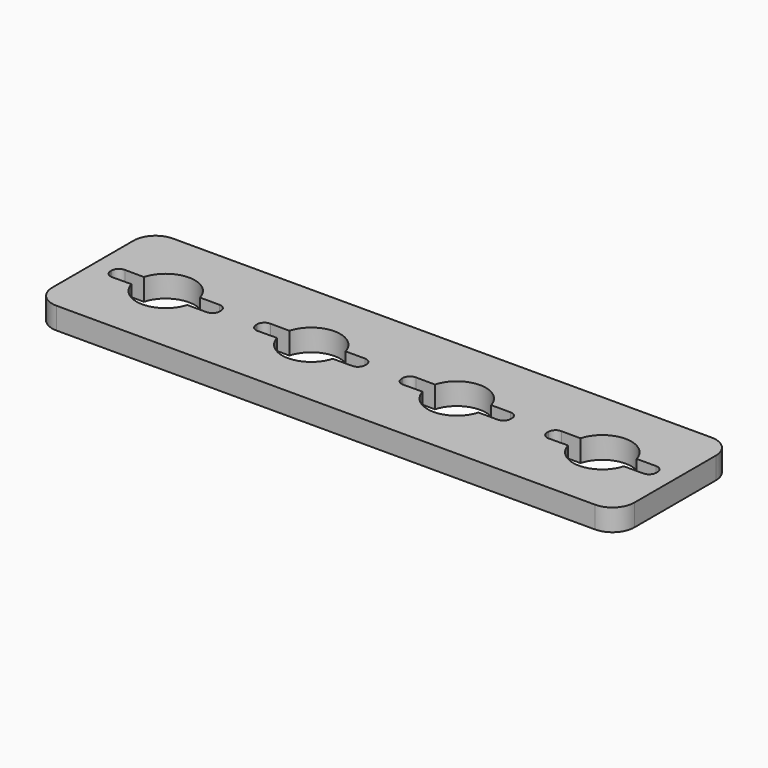
from build123d import *

# Parameters (mm, degrees)
F1_DEPTH = 3


with BuildPart() as f1:
    # F0 (on Top) → F1 (new body)
    with BuildSketch(Plane.XY):
        with BuildLine():
            Line((43.034693, -3.379224), (-30.965307, -3.379224))
            ThreePointArc((-30.965307, -3.379224), (-33.086628, -4.257904), (-33.965307, -6.379224))
            Line((-33.965307, -6.379224), (-33.965307, -20.379224))
            ThreePointArc((-33.965307, -20.379224), (-33.086628, -22.500544), (-30.965307, -23.379224))
            Line((-30.965307, -23.379224), (43.034693, -23.379224))
            ThreePointArc((43.034693, -23.379224), (45.156013, -22.500544), (46.034693, -20.379224))
            Line((46.034693, -20.379224), (46.034693, -6.379224))
            ThreePointArc((46.034693, -6.379224), (45.156013, -4.257904), (43.034693, -3.379224))
        make_face()
        with BuildLine():
            ThreePointArc((-27.821847, -12.317573), (-23.985223, -9.379274), (-20.11953, -12.279224))
            Line((-20.11953, -12.279224), (-17.465307, -12.279224))
            ThreePointArc((-17.465307, -12.279224), (-16.758201, -12.572117), (-16.465307, -13.279224))
            Line((-16.465307, -13.279224), (-16.465307, -13.479224))
            ThreePointArc((-16.465307, -13.479224), (-16.758201, -14.186331), (-17.465307, -14.479224))
            Line((-17.465307, -14.479224), (-20.11953, -14.479224))
            ThreePointArc((-20.11953, -14.479224), (-23.985223, -17.379174), (-27.821847, -14.440875))
            Line((-27.821847, -14.440875), (-30.454782, -14.468588))
            ThreePointArc((-30.454782, -14.468588), (-31.168683, -14.179461), (-31.465307, -13.468643))
            Line((-31.465307, -13.468643), (-31.465307, -13.289805))
            ThreePointArc((-31.465307, -13.289805), (-31.168683, -12.578987), (-30.454782, -12.28986))
            Line((-30.454782, -12.28986), (-27.821847, -12.317573))
        make_face(mode=Mode.SUBTRACT)
        with BuildLine():
            Line((-10.454782, -12.28986), (-7.821847, -12.317573))
            ThreePointArc((-7.821847, -12.317573), (-3.985223, -9.379274), (-0.11953, -12.279224))
            Line((-0.11953, -12.279224), (2.534693, -12.279224))
            ThreePointArc((2.534693, -12.279224), (3.241799, -12.572117), (3.534693, -13.279224))
            Line((3.534693, -13.279224), (3.534693, -13.479224))
            ThreePointArc((3.534693, -13.479224), (3.241799, -14.186331), (2.534693, -14.479224))
            Line((2.534693, -14.479224), (-0.11953, -14.479224))
            ThreePointArc((-0.11953, -14.479224), (-3.985223, -17.379174), (-7.821847, -14.440875))
            Line((-7.821847, -14.440875), (-10.454782, -14.468588))
            ThreePointArc((-10.454782, -14.468588), (-11.168683, -14.179461), (-11.465307, -13.468643))
            Line((-11.465307, -13.468643), (-11.465307, -13.289805))
            ThreePointArc((-11.465307, -13.289805), (-11.168683, -12.578987), (-10.454782, -12.28986))
        make_face(mode=Mode.SUBTRACT)
        with BuildLine():
            Line((9.545218, -12.28986), (12.178153, -12.317573))
            ThreePointArc((12.178153, -12.317573), (16.014777, -9.379274), (19.88047, -12.279224))
            Line((19.88047, -12.279224), (22.534693, -12.279224))
            ThreePointArc((22.534693, -12.279224), (23.241799, -12.572117), (23.534693, -13.279224))
            Line((23.534693, -13.279224), (23.534693, -13.479224))
            ThreePointArc((23.534693, -13.479224), (23.241799, -14.186331), (22.534693, -14.479224))
            Line((22.534693, -14.479224), (19.88047, -14.479224))
            ThreePointArc((19.88047, -14.479224), (16.014777, -17.379174), (12.178153, -14.440875))
            Line((12.178153, -14.440875), (9.545218, -14.468588))
            ThreePointArc((9.545218, -14.468588), (8.831317, -14.179461), (8.534693, -13.468643))
            Line((8.534693, -13.468643), (8.534693, -13.289805))
            ThreePointArc((8.534693, -13.289805), (8.831317, -12.578987), (9.545218, -12.28986))
        make_face(mode=Mode.SUBTRACT)
        with BuildLine():
            Line((29.545218, -12.28986), (32.178153, -12.317573))
            ThreePointArc((32.178153, -12.317573), (36.014777, -9.379274), (39.88047, -12.279224))
            Line((39.88047, -12.279224), (42.534693, -12.279224))
            ThreePointArc((42.534693, -12.279224), (43.241799, -12.572117), (43.534693, -13.279224))
            Line((43.534693, -13.279224), (43.534693, -13.479224))
            ThreePointArc((43.534693, -13.479224), (43.241799, -14.186331), (42.534693, -14.479224))
            Line((42.534693, -14.479224), (39.88047, -14.479224))
            ThreePointArc((39.88047, -14.479224), (36.014777, -17.379174), (32.178153, -14.440875))
            Line((32.178153, -14.440875), (29.545218, -14.468588))
            ThreePointArc((29.545218, -14.468588), (28.831317, -14.179461), (28.534693, -13.468643))
            Line((28.534693, -13.468643), (28.534693, -13.289805))
            ThreePointArc((28.534693, -13.289805), (28.831317, -12.578987), (29.545218, -12.28986))
        make_face(mode=Mode.SUBTRACT)
    extrude(amount=F1_DEPTH)


solid = f1.part
